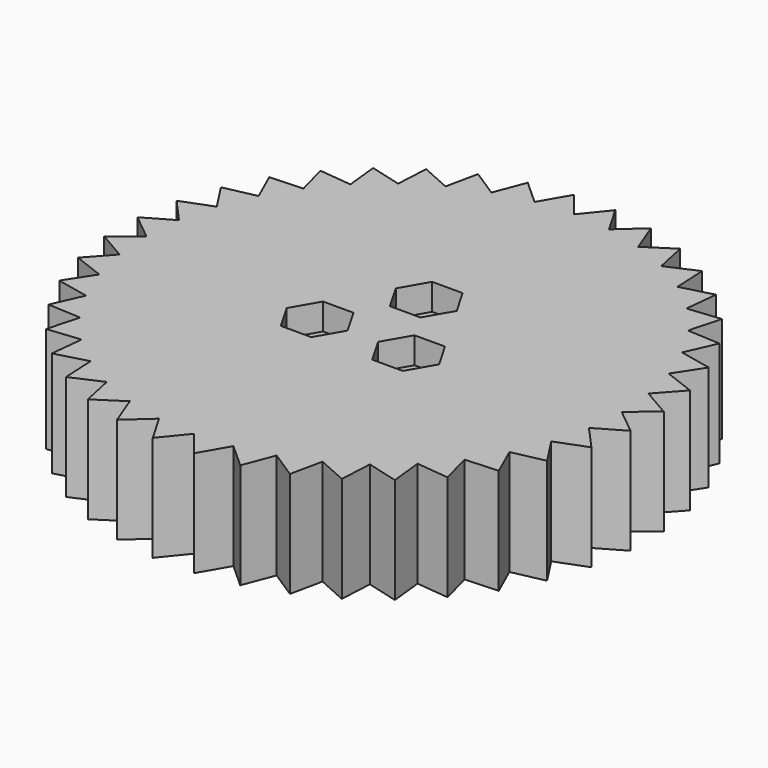
from build123d import *

# Parameters (mm, degrees)
F0_R     = 2.867556
F1_DEPTH = 20
F3_DEPTH = 5


with BuildPart() as f1:
    # F0 (on Top) → F1 (new body)
    with BuildSketch(Plane.XY):
        Polygon((49.845867, -3.922955), (45, 0), (49.845867, 3.922955), (44.445975, 7.039551), (48.618496, 11.672268), (42.797543, 13.905765), (46.193977, 19.134172), (40.095294, 20.429572), (42.632008, 26.124928), (36.405765, 26.450336), (38.020298, 32.472402), (31.819805, 31.819805), (32.472402, 38.020298), (26.450336, 36.405765), (26.124928, 42.632008), (20.429572, 40.095294), (19.134172, 46.193977), (13.905765, 42.797543), (11.672268, 48.618496), (7.039551, 44.445975), (3.922955, 49.845867), (0, 45), (-3.922955, 49.845867), (-7.039551, 44.445975), (-11.672268, 48.618496), (-13.905765, 42.797543), (-19.134172, 46.193977), (-20.429572, 40.095294), (-26.124928, 42.632008), (-26.450336, 36.405765), (-32.472402, 38.020298), (-31.819805, 31.819805), (-38.020298, 32.472402), (-36.405765, 26.450336), (-42.632008, 26.124928), (-40.095294, 20.429572), (-46.193977, 19.134172), (-42.797543, 13.905765), (-48.618496, 11.672268), (-44.445975, 7.039551), (-49.845867, 3.922955), (-45, 0), (-49.845867, -3.922955), (-44.445975, -7.039551), (-48.618496, -11.672268), (-42.797543, -13.905765), (-46.193977, -19.134172), (-40.095294, -20.429572), (-42.632008, -26.124928), (-36.405765, -26.450336), (-38.020298, -32.472402), (-31.819805, -31.819805), (-32.472402, -38.020298), (-26.450336, -36.405765), (-26.124928, -42.632008), (-20.429572, -40.095294), (-19.134172, -46.193977), (-13.905765, -42.797543), (-11.672268, -48.618496), (-7.039551, -44.445975), (-3.922955, -49.845867), (0, -45), (3.922955, -49.845867), (7.039551, -44.445975), (11.672268, -48.618496), (13.905765, -42.797543), (19.134172, -46.193977), (20.429572, -40.095294), (26.124928, -42.632008), (26.450336, -36.405765), (32.472402, -38.020298), (31.819805, -31.819805), (38.020298, -32.472402), (36.405765, -26.450336), (42.632008, -26.124928), (40.095294, -20.429572), (46.193977, -19.134172), (42.797543, -13.905765), (48.618496, -11.672268), (44.445975, -7.039551), align=None)
        with Locations((-8.660254, -5)):
            Circle(F0_R, mode=Mode.SUBTRACT)
        with Locations((8.660254, -5)):
            Circle(F0_R, mode=Mode.SUBTRACT)
        with Locations((0, 10)):
            Circle(F0_R, mode=Mode.SUBTRACT)
    extrude(amount=F1_DEPTH)

    # F2 (on face) → F3 (cut)
    with BuildSketch(Plane.XY.offset(20)):
        Polygon((2.886751, 15), (-2.886751, 15), (-5.773503, 10), (-2.886751, 5), (2.886751, 5), (5.773503, 10), align=None)
        Polygon((-11.547005, 0), (-14.433757, -5), (-11.547005, -10), (-5.773503, -10), (-2.886751, -5), (-5.773503, 0), align=None)
        Polygon((5.773503, -10), (11.547005, -10), (14.433757, -5), (11.547005, 0), (5.773503, 0), (2.886751, -5), align=None)
    extrude(amount=-F3_DEPTH, mode=Mode.SUBTRACT)


solid = f1.part
